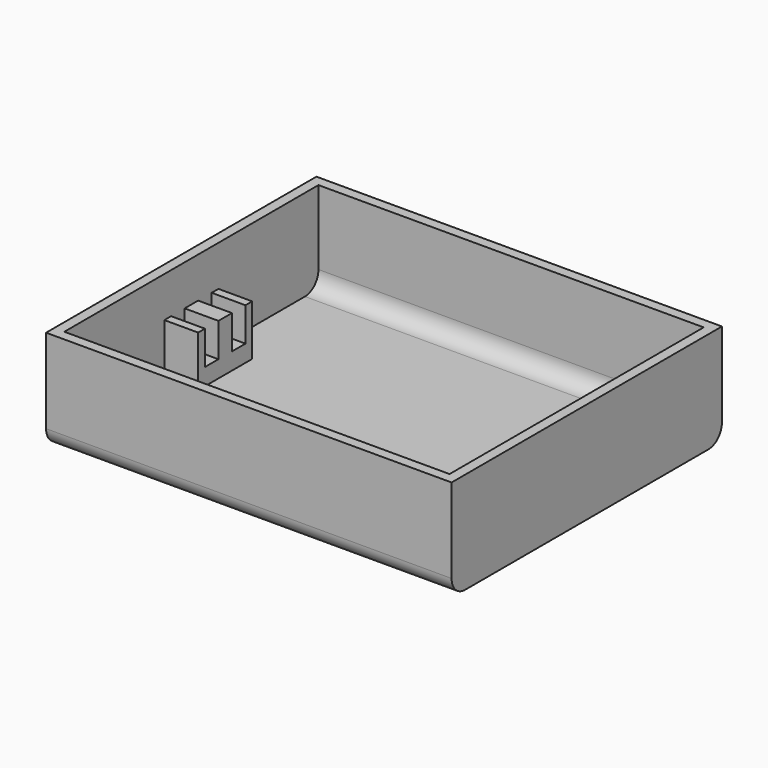
from build123d import *

# Parameters (mm, degrees)
BOX_W           = 120
BOX_H           = 100
BOX_DEPTH       = 30
SKETCH_W        = 114
SKETCH_H        = 94
POCKET_DEPTH    = 27
SKETCH001_W     = 114
SKETCH001_H     = 20
PAD_DEPTH       = 15
SKETCH002_W     = 114
SKETCH002_H     = 5
POCKET001_DEPTH = 10
SKETCH003_W     = 94
SKETCH003_H     = 20
POCKET002_DEPTH = 15
SKETCH008_R     = 1.43
POCKET005_DEPTH = 2.7
FILLET_R        = 5
SKETCH011_W     = 60
SKETCH011_H     = 40
POCKET008_DEPTH = 2


with BuildPart() as part:
    # Box → Box (new body)
    with BuildSketch(Plane.XY):
        with Locations((60, 50)):
            Rectangle(BOX_W, BOX_H)
    extrude(amount=BOX_DEPTH)

    # Sketch (on Face6 of BaseFeature) → Pocket (cut)
    with BuildSketch(Plane.XY.offset(30)):
        with Locations((60, 50)):
            Rectangle(SKETCH_W, SKETCH_H)
    extrude(amount=-POCKET_DEPTH, mode=Mode.SUBTRACT)

    # Sketch001 (on Face11 of Pocket) → Pad (join)
    with BuildSketch(Plane.XY.offset(3)):
        with Locations((60, 50)):
            Rectangle(SKETCH001_W, SKETCH001_H)
    extrude(amount=PAD_DEPTH)

    # Sketch002 (on Face13 of Pad) → Pocket001 (cut)
    with BuildSketch(Plane.XY.offset(18)):
        with Locations((60, 55)):
            Rectangle(SKETCH002_W, SKETCH002_H)
        with Locations((60, 45)):
            Rectangle(SKETCH002_W, SKETCH002_H)
    extrude(amount=-POCKET001_DEPTH, mode=Mode.SUBTRACT)

    # Sketch003 (on Face15 of Pocket001) → Pocket002 (cut)
    with BuildSketch(Plane.XY.offset(18)):
        with Locations((60, 50)):
            Rectangle(SKETCH003_W, SKETCH003_H)
    extrude(amount=-POCKET002_DEPTH, mode=Mode.SUBTRACT)

    # Sketch008 (on Face41 of Pocket002) → Pocket005 (cut)
    with BuildSketch(Plane.XY.offset(8)):
        with Locations((112, 45)):
            Circle(SKETCH008_R)
        with Locations((112, 55)):
            Circle(SKETCH008_R)
        with Locations((8, 45)):
            Circle(SKETCH008_R)
        with Locations((8, 55)):
            Circle(SKETCH008_R)
    extrude(amount=-POCKET005_DEPTH, mode=Mode.SUBTRACT)

    # Fillet
    fillet_edges = [part.edges().sort_by_distance(p)[0] for p in [
        (60, 0, 0),
        (60, 3, 3),
        (60, 97, 3),
        (60, 100, 0),
    ]]
    fillet(fillet_edges, radius=FILLET_R)

    # Sketch011 (on Face5 of Fillet) → Pocket008 (cut)
    with BuildSketch(Plane(origin=(0, 0, 0), x_dir=(1, 0, 0), z_dir=(0, 0, -1))):
        with Locations((60, -50)):
            Rectangle(SKETCH011_W, SKETCH011_H)
    extrude(amount=-POCKET008_DEPTH, mode=Mode.SUBTRACT)


solid = part.part
